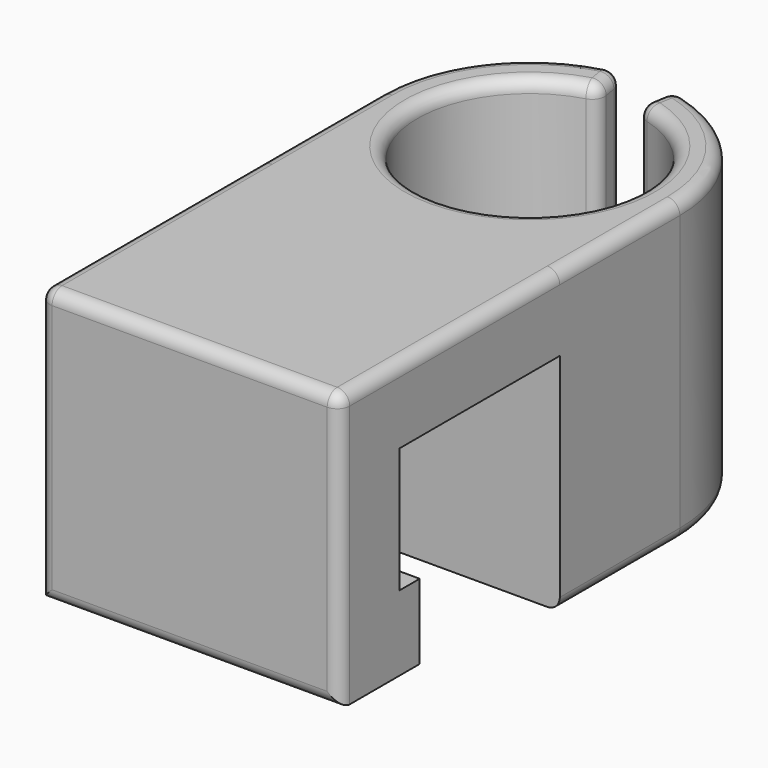
from build123d import *

# Parameters (mm, degrees)
F1_DEPTH = 12
F2_R     = 0.5
F4_DEPTH = 12
F5_R     = 0.5


with BuildPart() as f1:
    # F0 (on Top) → F1 (new body)
    with BuildSketch(Plane.XY):
        with BuildLine():
            Line((-12, 0), (0, 0))
            Line((0, 0), (0, 6))
            ThreePointArc((0, 6), (-1.403733, 9.856726), (-4.958111, 11.908847))
            Line((-4.958111, 11.908847), (-5.218583, 10.431635))
            ThreePointArc((-5.218583, 10.431635), (-6, 1.5), (-6.781417, 10.431635))
            Line((-6.781417, 10.431635), (-7.041889, 11.908847))
            ThreePointArc((-7.041889, 11.908847), (-10.596267, 9.856726), (-12, 6))
            Line((-12, 6), (-12, 0))
        make_face()
    extrude(amount=F1_DEPTH)

    # F2
    f2_edges = [f1.edges().sort_by_distance(p)[0] for p in [
        (-6.781417, 10.431635, 6),
        (-7.041889, 11.908847, 6),
        (-5.218583, 10.431635, 6),
        (-4.958111, 11.908847, 6),
        (-10.596267, 9.856726, 0),
        (-10.596267, 9.856726, 12),
        (-12, 3, 0),
        (-12, 3, 12),
        (-1.403733, 9.856726, 0),
        (0, 3, 0),
        (-1.403733, 9.856726, 12),
        (0, 3, 12),
        (-6.911653, 11.170241, 0),
        (-5.088347, 11.170241, 0),
        (-6.911653, 11.170241, 12),
        (-5.088347, 11.170241, 12),
        (-6, 1.5, 12),
        (-6, 1.5, 0),
    ]]
    fillet(f2_edges, radius=F2_R)

    # F3 (on face) → F4 (join)
    with BuildSketch(Plane.YZ):
        Polygon((0, 11.5), (0, 12), (-11, 12), (-11, 1), (-7, 1), (-7, 4), (-8, 4), (-8, 9), (0, 9), align=None)
    extrude(amount=-F4_DEPTH)

    # F5
    f5_edges = [f1.edges().sort_by_distance(p)[0] for p in [
        (0, -5.5, 12),
        (-12, -5.5, 12),
        (-12, -11, 6.5),
        (-6, -11, 12),
        (0, -11, 6.5),
        (-6, -11, 1),
    ]]
    fillet(f5_edges, radius=F5_R)


solid = f1.part
